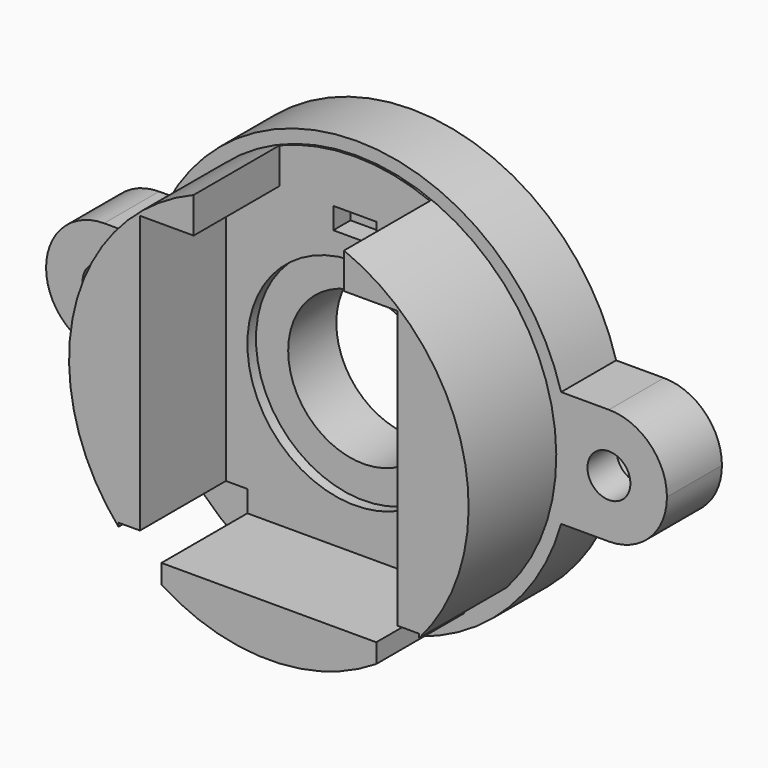
from build123d import *

# Parameters (mm, degrees)
F2_R      = 1.85
F2_R_2    = 1
F3_DEPTH  = 3.2
F4_W      = 12
F4_H      = 13.9
F5_DEPTH  = 5
F6_D      = 7
F7_W      = 2
F7_H      = 1
F8_DEPTH  = 6
F9_W      = 7
F9_H      = 10
F10_DEPTH = 5
F11_DEPTH = 3.2
F13_DEPTH = 1.5
F14_DEPTH = 25
F15_R     = 5
F16_DEPTH = 0.5
F17_W     = 2
F17_H     = 2
F18_DEPTH = 5.1


with BuildPart() as f1:
    # F0 (on Top) → F1 (revolve)
    with BuildSketch(Plane.XY):
        Polygon((-9.3, -5.1), (0, -5.1), (0, 3.2), (-9.9, 3.2), (-9.9, 0), (-9.3, 0), align=None)
    revolve(axis=Axis((0, -0.95, 0), (0, -1, 0)))

    # F4 (on face) → F5 (cut)
    with BuildSketch(Plane.XZ.offset(5.1)):
        Rectangle(F4_W, F4_H)
    extrude(amount=-F5_DEPTH, mode=Mode.SUBTRACT)

    # F6 (through all)
    with Locations(Plane.XZ.offset(5.1)):
        with Locations((0, 0)):
            Hole(F6_D / 2)

    # F7 (on face) → F8 (cut)
    with BuildSketch(Plane.XZ.offset(5.1)):
        with Locations((0, 6.45)):
            Rectangle(F7_W, F7_H)
    extrude(amount=-F8_DEPTH, mode=Mode.SUBTRACT)

    # F9 (on face) → F10 (cut)
    with BuildSketch(Plane.XZ.offset(5.1)):
        with Locations((0, 11.95)):
            Rectangle(F9_W, F9_H)
    extrude(amount=-F10_DEPTH, mode=Mode.SUBTRACT)


with BuildPart() as f3:
    # F2 (on face) → F3 (new body)
    with BuildSketch(Plane(origin=(0, 3.2, 0), x_dir=(-1, 0, 0), z_dir=(0, 1, 0))):
        with BuildLine():
            Line((-11.75, -2.7), (-9.5247047198, -2.7))
            ThreePointArc((-9.5247047198, -2.7), (-9.8057273245, -1.3629789569), (-9.9, 0))
            ThreePointArc((-9.9, 0), (-9.8057273245, 1.3629789569), (-9.5247047198, 2.7))
            Line((-9.5247047198, 2.7), (-11.75, 2.7))
            ThreePointArc((-11.75, 2.7), (-13.6591883092, 1.9091883092), (-14.45, 0))
            ThreePointArc((-14.45, 0), (-13.6591883092, -1.9091883092), (-11.75, -2.7))
        make_face()
        with Locations((-11.75, 0)):
            Circle(F2_R, mode=Mode.SUBTRACT)
        with BuildLine():
            Line((-11.75, -2.7), (-9.5247047198, -2.7))
            ThreePointArc((-9.5247047198, -2.7), (-9.8057273245, -1.3629789569), (-9.9, 0))
            ThreePointArc((-9.9, 0), (-9.8057273245, 1.3629789569), (-9.5247047198, 2.7))
            Line((-9.5247047198, 2.7), (-11.75, 2.7))
            ThreePointArc((-11.75, 2.7), (-13.6591883092, 1.9091883092), (-14.45, 0))
            ThreePointArc((-14.45, 0), (-13.6591883092, -1.9091883092), (-11.75, -2.7))
        make_face()
        with Locations((-11.75, 0)):
            Circle(F2_R, mode=Mode.SUBTRACT)
        with BuildLine():
            Line((-11.75, -2.7), (-9.5247047198, -2.7))
            ThreePointArc((-9.5247047198, -2.7), (-9.8057273245, -1.3629789569), (-9.9, 0))
            ThreePointArc((-9.9, 0), (-9.8057273245, 1.3629789569), (-9.5247047198, 2.7))
            Line((-9.5247047198, 2.7), (-11.75, 2.7))
            ThreePointArc((-11.75, 2.7), (-13.6591883092, 1.9091883092), (-14.45, 0))
            ThreePointArc((-14.45, 0), (-13.6591883092, -1.9091883092), (-11.75, -2.7))
        make_face()
        with Locations((-11.75, 0)):
            Circle(F2_R, mode=Mode.SUBTRACT)
        with Locations((-11.75, 0)):
            Circle(F2_R)
        with Locations((-11.75, 0)):
            Circle(F2_R_2, mode=Mode.SUBTRACT)
    extrude(amount=-F3_DEPTH)


with BuildPart() as f11:
    # F2 (on face) → F11 (new body)
    with BuildSketch(Plane(origin=(0, 3.2, 0), x_dir=(-1, 0, 0), z_dir=(0, 1, 0))):
        with BuildLine():
            ThreePointArc((9.9, 0), (9.8057273245, -1.3629789569), (9.5247047198, -2.7))
            Line((9.5247047198, -2.7), (11.75, -2.7))
            ThreePointArc((11.75, -2.7), (13.6591883092, -1.9091883092), (14.45, 0))
            ThreePointArc((14.45, 0), (13.6591883092, 1.9091883092), (11.75, 2.7))
            Line((11.75, 2.7), (9.5247047198, 2.7))
            ThreePointArc((9.5247047198, 2.7), (9.8057273245, 1.3629789569), (9.9, 0))
        make_face()
        with BuildLine():
            ThreePointArc((13.6, 0), (11.75, -1.85), (9.9, 0))
            ThreePointArc((9.9, 0), (11.75, 1.85), (13.6, 0))
        make_face(mode=Mode.SUBTRACT)
        with BuildLine():
            ThreePointArc((13.6, 0), (11.75, 1.85), (9.9, 0))
            ThreePointArc((9.9, 0), (11.75, -1.85), (13.6, 0))
        make_face()
        with Locations((11.75, 0)):
            Circle(F2_R_2, mode=Mode.SUBTRACT)
        with Locations((11.75, 0)):
            Circle(F2_R_2)
    extrude(amount=-F11_DEPTH)


with BuildPart() as f3_1:
    add(f3.part)

    # F12: union F11, F1
    add(f11.part)
    add(f1.part)

    # F2 (on face) → F13 (cut)
    with BuildSketch(Plane(origin=(0, 3.2, 0), x_dir=(-1, 0, 0), z_dir=(0, 1, 0))):
        with BuildLine():
            ThreePointArc((13.6, 0), (11.75, 1.85), (9.9, 0))
            ThreePointArc((9.9, 0), (11.75, -1.85), (13.6, 0))
        make_face()
        with Locations((11.75, 0)):
            Circle(F2_R_2, mode=Mode.SUBTRACT)
        with Locations((-11.75, 0)):
            Circle(F2_R)
        with Locations((-11.75, 0)):
            Circle(F2_R_2, mode=Mode.SUBTRACT)
    extrude(amount=-F13_DEPTH, mode=Mode.SUBTRACT)

    # F2 (on face) → F14 (cut)
    with BuildSketch(Plane(origin=(0, 3.2, 0), x_dir=(-1, 0, 0), z_dir=(0, 1, 0))):
        with Locations((11.75, 0)):
            Circle(F2_R_2)
    extrude(amount=-F14_DEPTH, mode=Mode.SUBTRACT)

    # F15 (on face) → F16 (cut)
    with BuildSketch(Plane.XZ.offset(0.1)):
        Circle(F15_R)
    extrude(amount=-F16_DEPTH, mode=Mode.SUBTRACT)

    # F17 (on face) → F18 (cut, through all)
    with BuildSketch(Plane.XZ.offset(5.1)):
        with Locations((-6, -6.95)):
            Rectangle(F17_W, F17_H)
        with Locations((6, -6.95)):
            Rectangle(F17_W, F17_H)
    extrude(amount=-F18_DEPTH, mode=Mode.SUBTRACT)


solid = f3_1.part
